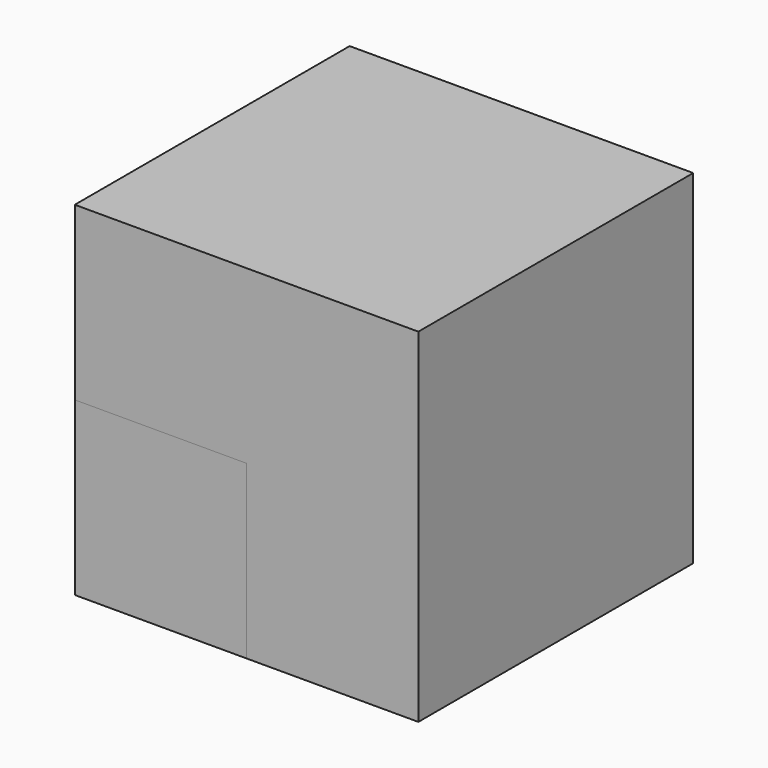
from build123d import *

# Parameters (mm, degrees)
BOX_W        = 10
BOX_H        = 10
BOX_DEPTH    = 10
BOX001_W     = 5
BOX001_H     = 5
BOX001_DEPTH = 5


with BuildPart() as cub:
    # Box → Box (new body)
    with BuildSketch(Plane.XY):
        with Locations((5, 5)):
            Rectangle(BOX_W, BOX_H)
    extrude(amount=BOX_DEPTH)


with BuildPart() as cub001:
    # Box001 → Box001 (new body)
    with BuildSketch(Plane.XY):
        with Locations((2.5, 2.5)):
            Rectangle(BOX001_W, BOX001_H)
    extrude(amount=BOX001_DEPTH)


solid = Compound([cub.part, cub001.part])
